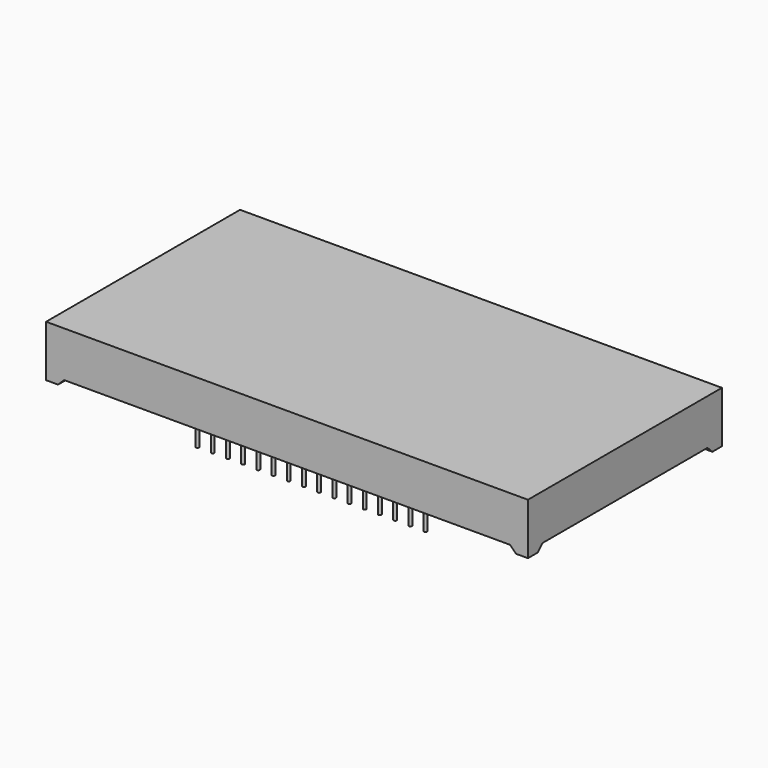
from build123d import *

# Parameters (mm, degrees)
SKETCH_W        = 80.5
SKETCH_H        = 40.5
PAD_DEPTH       = 8.6
POCKET_DEPTH    = 40.501
POCKET001_DEPTH = 80.501
SKETCH003_R     = 0.255
PAD001_DEPTH    = 6


with BuildPart() as part:
    # Sketch → Pad (new body)
    with BuildSketch(Plane.XY):
        with Locations((40.25, 20.25)):
            Rectangle(SKETCH_W, SKETCH_H)
    extrude(amount=PAD_DEPTH)

    # Sketch001 (on Face1 of Pad) → Pocket (cut, through all)
    with BuildSketch(Plane.XZ):
        Polygon((2, 0), (3, 1), (77.5, 1), (78.5, 0), align=None)
    extrude(amount=-POCKET_DEPTH, mode=Mode.SUBTRACT)

    # Sketch002 (on Face9 of Pocket) → Pocket001 (cut, through all)
    with BuildSketch(Plane(origin=(0, 0, 0), x_dir=(0, -1, 0), z_dir=(-1, 0, 0))):
        Polygon((-38.5, 0), (-37.5, 1), (-3, 1), (-2, 0), align=None)
    extrude(amount=-POCKET001_DEPTH, mode=Mode.SUBTRACT)

    # Sketch003 (on Face11 of Pocket001) → Pad001 (join)
    with BuildSketch(Plane(origin=(0, 0, 1), x_dir=(1, 0, 0), z_dir=(0, 0, -1))):
        with Locations((21.2, -5.12)):
            Circle(SKETCH003_R)
        with Locations((59.3, -5.12)):
            Circle(SKETCH003_R)
        with Locations((23.74, -5.12)):
            Circle(SKETCH003_R)
        with Locations((26.28, -5.12)):
            Circle(SKETCH003_R)
        with Locations((28.82, -5.12)):
            Circle(SKETCH003_R)
        with Locations((31.36, -5.12)):
            Circle(SKETCH003_R)
        with Locations((33.9, -5.12)):
            Circle(SKETCH003_R)
        with Locations((36.44, -5.12)):
            Circle(SKETCH003_R)
        with Locations((38.98, -5.12)):
            Circle(SKETCH003_R)
        with Locations((41.52, -5.12)):
            Circle(SKETCH003_R)
        with Locations((44.06, -5.12)):
            Circle(SKETCH003_R)
        with Locations((46.6, -5.12)):
            Circle(SKETCH003_R)
        with Locations((49.14, -5.12)):
            Circle(SKETCH003_R)
        with Locations((51.68, -5.12)):
            Circle(SKETCH003_R)
        with Locations((54.22, -5.12)):
            Circle(SKETCH003_R)
        with Locations((56.76, -5.12)):
            Circle(SKETCH003_R)
    pad001 = extrude(amount=PAD001_DEPTH)

    # Mirrored: Pad001 across Sketch003 Axis17
    add(pad001.mirror(Plane(origin=(0, 20.25, 1), x_dir=(0, 0, -1), z_dir=(0, -1, 0))))


solid = part.part
